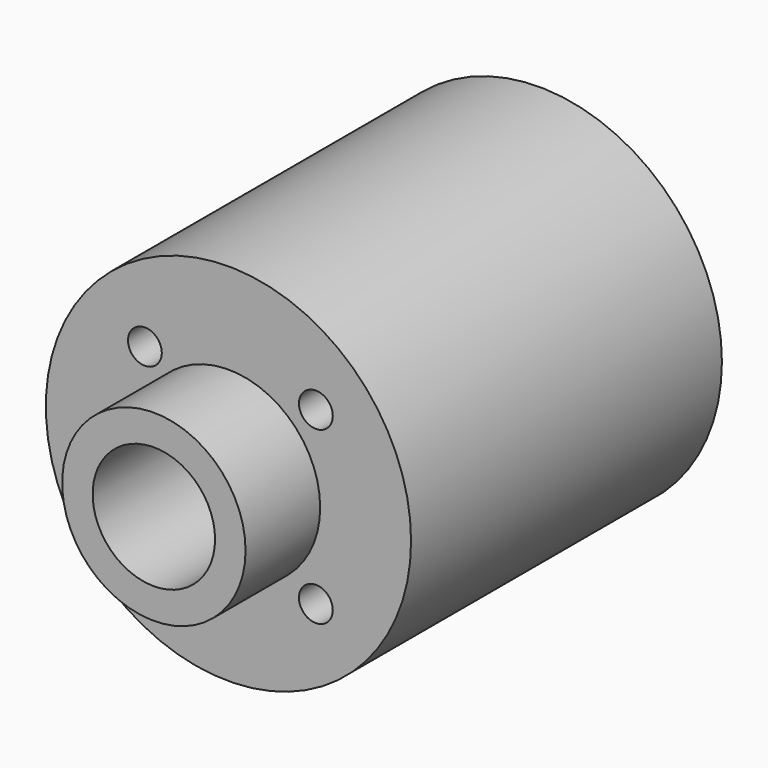
from build123d import *

# Parameters (mm, degrees)
F0_R     = 11.938
F0_R_2   = 1.1049
F0_R_3   = 5.9944
F1_DEPTH = 25.4
F0_R_4   = 4.0005
F2_DEPTH = 31.496


with BuildPart() as f1:
    # F0 (on Front) → F1 (new body)
    with BuildSketch(Plane.XZ):
        Circle(F0_R)
        with Locations((-5.461991, -5.638247)):
            Circle(F0_R_2, mode=Mode.SUBTRACT)
        with Locations((5.714009, -5.638247)):
            Circle(F0_R_2, mode=Mode.SUBTRACT)
        with Locations((-5.461991, 5.537753)):
            Circle(F0_R_2, mode=Mode.SUBTRACT)
        Circle(F0_R_3, mode=Mode.SUBTRACT)
        with Locations((5.714009, 5.537753)):
            Circle(F0_R_2, mode=Mode.SUBTRACT)
    extrude(amount=F1_DEPTH)

    # F0 (on Front) → F2 (join)
    with BuildSketch(Plane.XZ):
        Circle(F0_R_3)
        Circle(F0_R_4, mode=Mode.SUBTRACT)
    extrude(amount=F2_DEPTH)


solid = f1.part
